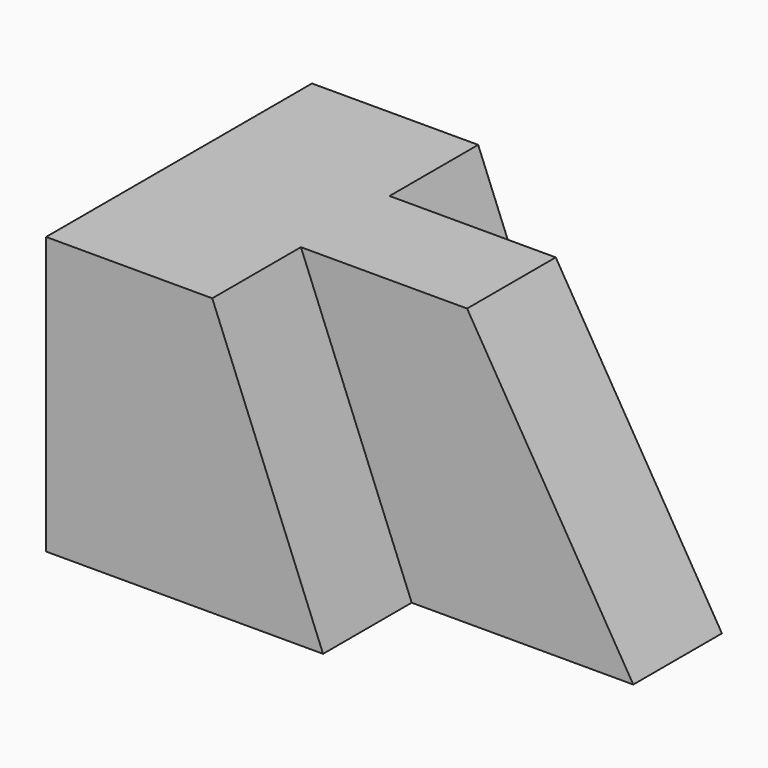
from build123d import *

# Parameters (mm, degrees)
F0_W     = 57.15
F0_H     = 31.75
F1_DEPTH = 38.1
F3_DEPTH = 12.7
F5_DEPTH = 12.7
F7_DEPTH = 25.401


with BuildPart() as f1:
    # F0 (on Front) → F1 (new body)
    with BuildSketch(Plane.XZ):
        with Locations((28.575, 15.875)):
            Rectangle(F0_W, F0_H)
    extrude(amount=F1_DEPTH)

    # F2 (on face) → F3 (cut)
    with BuildSketch(Plane.XZ.offset(38.1)):
        Polygon((57.15, 31.75), (19.05, 31.75), (31.75, 0), (57.15, 0), align=None)
    extrude(amount=-F3_DEPTH, mode=Mode.SUBTRACT)

    # F4 (on face) → F5 (cut)
    with BuildSketch(Plane(origin=(0, 0, 0), x_dir=(-1, 0, 0), z_dir=(0, 1, 0))):
        Polygon((-31.75, 0), (-19.05, 31.75), (-57.15, 31.75), (-57.15, 0), align=None)
    extrude(amount=-F5_DEPTH, mode=Mode.SUBTRACT)

    # F6 (on face) → F7 (cut, through all)
    with BuildSketch(Plane.XZ.offset(25.4)):
        Polygon((38.1, 31.75), (57.15, 0), (57.15, 31.75), align=None)
    extrude(amount=-F7_DEPTH, mode=Mode.SUBTRACT)


solid = f1.part
